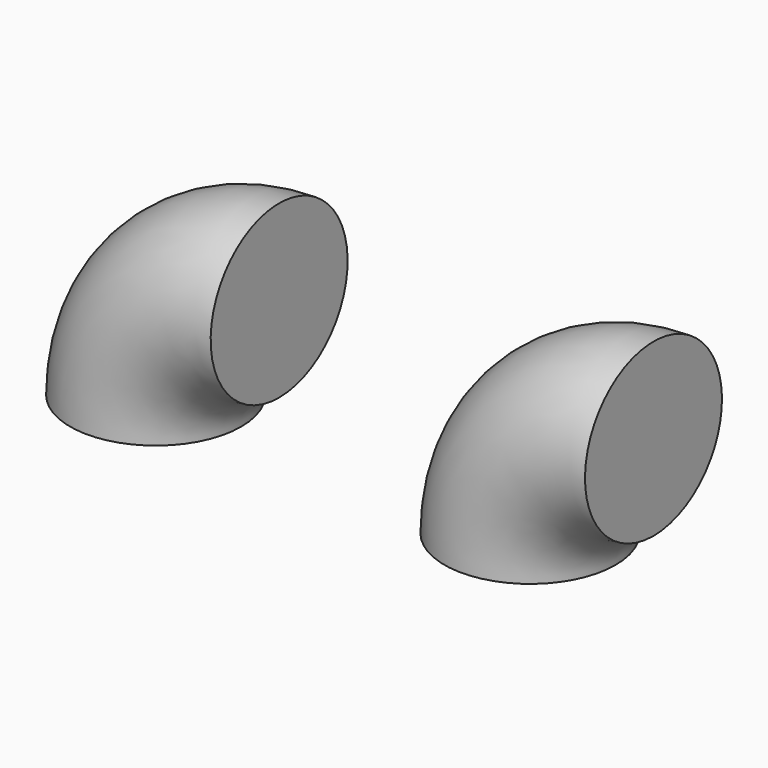
from build123d import *

# Parameters (mm, degrees)
F0_R = 25
F3_R = 25


with BuildPart() as f2:
    # F2: sweep along a path in F1
    with BuildLine(Plane.XZ) as f2_path:
        ThreePointArc((0, 0), (10.562446, 25.5), (36.062446, 36.062446))
    # F0 (on Top) → F2 (sweep)
    with BuildSketch(Plane.XY):
        Circle(F0_R)
    sweep(path=f2_path.line)


with BuildPart() as f5:
    # F5: sweep along a path in F4
    with BuildLine(Plane.XZ) as f5_path:
        ThreePointArc((109.351132, 0), (119.913577, 25.5), (145.413577, 36.062446))
    # F3 (on Top) → F5 (sweep)
    with BuildSketch(Plane.XY):
        with Locations((109.351132, 0)):
            Circle(F3_R)
    sweep(path=f5_path.line)


solid = Compound([f2.part, f5.part])
